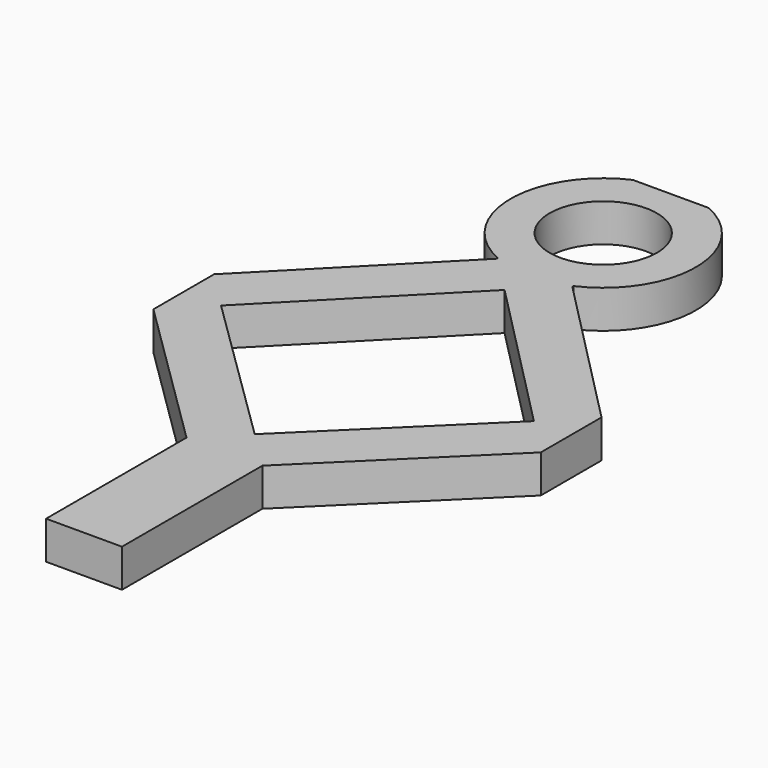
from build123d import *

# Parameters (mm, degrees)
F1_DEPTH = 7.62


with BuildPart() as f1:
    # F0 (on Top) → F1 (new body)
    with BuildSketch(Plane.XY):
        with BuildLine():
            Line((-36.6141, -105.370229), (-36.6141, -140.6144))
            Line((-36.6141, -140.6144), (-21.3741, -140.6144))
            Line((-21.3741, -140.6144), (-21.3741, -105.370229))
            Line((-21.3741, -105.370229), (9.906, -74.5744))
            Line((9.906, -74.5744), (9.906, -59.3344))
            Line((9.906, -59.3344), (-21.3741, -27.562414))
            Line((-21.3741, -27.562414), (-21.3741, -27.255072))
            ThreePointArc((-21.3741, -27.255072), (-10.382377, -10.274736), (-21.3741, 6.7056))
            Line((-21.3741, 6.7056), (-36.6141, 6.7056))
            ThreePointArc((-36.6141, 6.7056), (-47.605823, -10.274736), (-36.6141, -27.255072))
            Line((-36.6141, -27.255072), (-36.6141, -27.562414))
            Line((-36.6141, -27.562414), (-67.8942, -59.3344))
            Line((-67.8942, -59.3344), (-67.8942, -74.5744))
            Line((-67.8942, -74.5744), (-36.6141, -105.370229))
        make_face()
        Polygon((-28.9941, -97.767008), (-60.40895, -66.9544), (-28.9941, -35.045545), (2.42075, -66.9544), align=None, mode=Mode.SUBTRACT)
        with BuildLine():
            ThreePointArc((-21.3741, -17.894736), (-39.770407, -10.274736), (-21.3741, -2.654736))
            ThreePointArc((-21.3741, -2.654736), (-19.03809, -6.150822), (-18.217793, -10.274736))
            ThreePointArc((-18.217793, -10.274736), (-19.03809, -14.39865), (-21.3741, -17.894736))
        make_face(mode=Mode.SUBTRACT)
    extrude(amount=F1_DEPTH)


solid = f1.part
